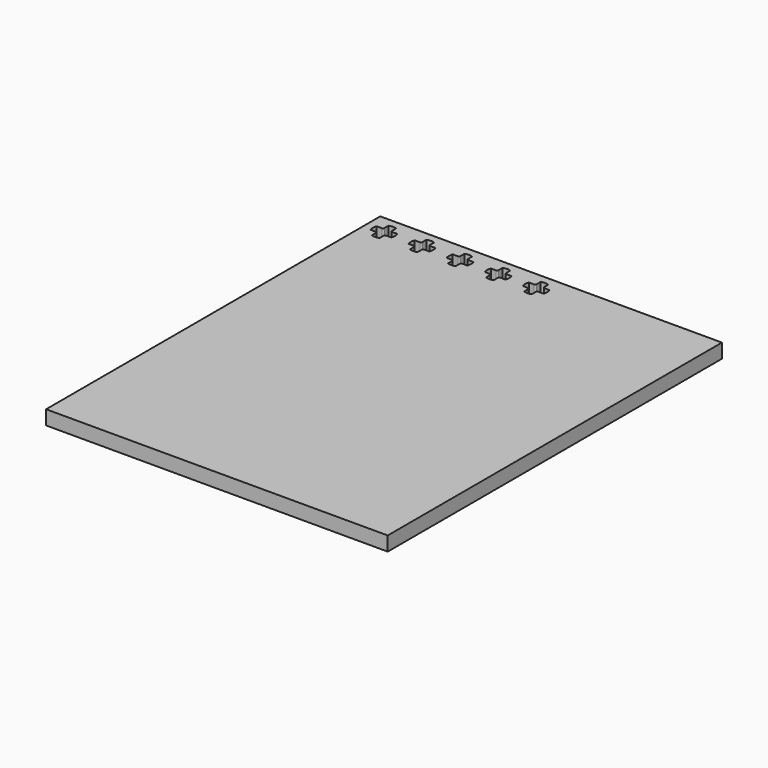
from build123d import *

# Parameters (mm, degrees)
F0_W     = 71.85
F0_H     = 87.85
F1_DEPTH = 3


with BuildPart() as f1:
    # F0 (on Top) → F1 (new body)
    with BuildSketch(Plane.XY):
        Rectangle(F0_W, F0_H)
        with BuildLine():
            ThreePointArc((-32.8, 42.183031), (-32, 42.325), (-31.2, 42.183031))
            Line((-31.2, 42.183031), (-31.2, 41.1))
            ThreePointArc((-31.2, 41.1), (-31.112132, 40.887868), (-30.9, 40.8))
            Line((-30.9, 40.8), (-29.816969, 40.8))
            ThreePointArc((-29.816969, 40.8), (-29.675, 40), (-29.816969, 39.2))
            Line((-29.816969, 39.2), (-30.9, 39.2))
            ThreePointArc((-30.9, 39.2), (-31.112132, 39.112132), (-31.2, 38.9))
            Line((-31.2, 38.9), (-31.2, 37.816969))
            ThreePointArc((-31.2, 37.816969), (-32, 37.675), (-32.8, 37.816969))
            Line((-32.8, 37.816969), (-32.8, 38.9))
            ThreePointArc((-32.8, 38.9), (-32.887868, 39.112132), (-33.1, 39.2))
            Line((-33.1, 39.2), (-34.183031, 39.2))
            ThreePointArc((-34.183031, 39.2), (-34.325, 40), (-34.183031, 40.8))
            Line((-34.183031, 40.8), (-33.1, 40.8))
            ThreePointArc((-33.1, 40.8), (-32.887868, 40.887868), (-32.8, 41.1))
            Line((-32.8, 41.1), (-32.8, 42.183031))
        make_face(mode=Mode.SUBTRACT)
        with BuildLine():
            ThreePointArc((-24.8, 42.183031), (-24, 42.325), (-23.2, 42.183031))
            Line((-23.2, 42.183031), (-23.2, 41.1))
            ThreePointArc((-23.2, 41.1), (-23.112132, 40.887868), (-22.9, 40.8))
            Line((-22.9, 40.8), (-21.816969, 40.8))
            ThreePointArc((-21.816969, 40.8), (-21.675, 40), (-21.816969, 39.2))
            Line((-21.816969, 39.2), (-22.9, 39.2))
            ThreePointArc((-22.9, 39.2), (-23.112132, 39.112132), (-23.2, 38.9))
            Line((-23.2, 38.9), (-23.2, 37.816969))
            ThreePointArc((-23.2, 37.816969), (-24, 37.675), (-24.8, 37.816969))
            Line((-24.8, 37.816969), (-24.8, 38.9))
            ThreePointArc((-24.8, 38.9), (-24.887868, 39.112132), (-25.1, 39.2))
            Line((-25.1, 39.2), (-26.183031, 39.2))
            ThreePointArc((-26.183031, 39.2), (-26.325, 40), (-26.183031, 40.8))
            Line((-26.183031, 40.8), (-25.1, 40.8))
            ThreePointArc((-25.1, 40.8), (-24.887868, 40.887868), (-24.8, 41.1))
            Line((-24.8, 41.1), (-24.8, 42.183031))
        make_face(mode=Mode.SUBTRACT)
        with BuildLine():
            ThreePointArc((-16.8, 42.183031), (-16, 42.325), (-15.2, 42.183031))
            Line((-15.2, 42.183031), (-15.2, 41.1))
            ThreePointArc((-15.2, 41.1), (-15.112132, 40.887868), (-14.9, 40.8))
            Line((-14.9, 40.8), (-13.816969, 40.8))
            ThreePointArc((-13.816969, 40.8), (-13.675, 40), (-13.816969, 39.2))
            Line((-13.816969, 39.2), (-14.9, 39.2))
            ThreePointArc((-14.9, 39.2), (-15.112132, 39.112132), (-15.2, 38.9))
            Line((-15.2, 38.9), (-15.2, 37.816969))
            ThreePointArc((-15.2, 37.816969), (-16, 37.675), (-16.8, 37.816969))
            Line((-16.8, 37.816969), (-16.8, 38.9))
            ThreePointArc((-16.8, 38.9), (-16.887868, 39.112132), (-17.1, 39.2))
            Line((-17.1, 39.2), (-18.183031, 39.2))
            ThreePointArc((-18.183031, 39.2), (-18.325, 40), (-18.183031, 40.8))
            Line((-18.183031, 40.8), (-17.1, 40.8))
            ThreePointArc((-17.1, 40.8), (-16.887868, 40.887868), (-16.8, 41.1))
            Line((-16.8, 41.1), (-16.8, 42.183031))
        make_face(mode=Mode.SUBTRACT)
        with BuildLine():
            ThreePointArc((-8.8, 42.183031), (-8, 42.325), (-7.2, 42.183031))
            Line((-7.2, 42.183031), (-7.2, 41.1))
            ThreePointArc((-7.2, 41.1), (-7.112132, 40.887868), (-6.9, 40.8))
            Line((-6.9, 40.8), (-5.816969, 40.8))
            ThreePointArc((-5.816969, 40.8), (-5.675, 40), (-5.816969, 39.2))
            Line((-5.816969, 39.2), (-6.9, 39.2))
            ThreePointArc((-6.9, 39.2), (-7.112132, 39.112132), (-7.2, 38.9))
            Line((-7.2, 38.9), (-7.2, 37.816969))
            ThreePointArc((-7.2, 37.816969), (-8, 37.675), (-8.8, 37.816969))
            Line((-8.8, 37.816969), (-8.8, 38.9))
            ThreePointArc((-8.8, 38.9), (-8.887868, 39.112132), (-9.1, 39.2))
            Line((-9.1, 39.2), (-10.183031, 39.2))
            ThreePointArc((-10.183031, 39.2), (-10.325, 40), (-10.183031, 40.8))
            Line((-10.183031, 40.8), (-9.1, 40.8))
            ThreePointArc((-9.1, 40.8), (-8.887868, 40.887868), (-8.8, 41.1))
            Line((-8.8, 41.1), (-8.8, 42.183031))
        make_face(mode=Mode.SUBTRACT)
        with BuildLine():
            ThreePointArc((-0.8, 42.183031), (0, 42.325), (0.8, 42.183031))
            Line((0.8, 42.183031), (0.8, 41.1))
            ThreePointArc((0.8, 41.1), (0.887868, 40.887868), (1.1, 40.8))
            Line((1.1, 40.8), (2.183031, 40.8))
            ThreePointArc((2.183031, 40.8), (2.325, 40), (2.183031, 39.2))
            Line((2.183031, 39.2), (1.1, 39.2))
            ThreePointArc((1.1, 39.2), (0.887868, 39.112132), (0.8, 38.9))
            Line((0.8, 38.9), (0.8, 37.816969))
            ThreePointArc((0.8, 37.816969), (0, 37.675), (-0.8, 37.816969))
            Line((-0.8, 37.816969), (-0.8, 38.9))
            ThreePointArc((-0.8, 38.9), (-0.887868, 39.112132), (-1.1, 39.2))
            Line((-1.1, 39.2), (-2.183031, 39.2))
            ThreePointArc((-2.183031, 39.2), (-2.325, 40), (-2.183031, 40.8))
            Line((-2.183031, 40.8), (-1.1, 40.8))
            ThreePointArc((-1.1, 40.8), (-0.887868, 40.887868), (-0.8, 41.1))
            Line((-0.8, 41.1), (-0.8, 42.183031))
        make_face(mode=Mode.SUBTRACT)
    extrude(amount=F1_DEPTH)


solid = f1.part
